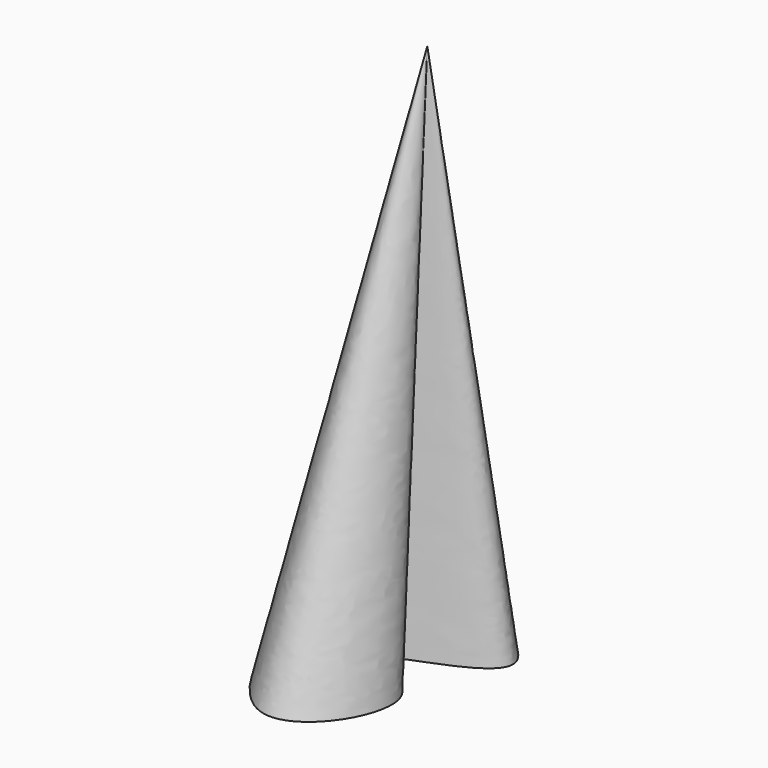
from build123d import *


with BuildPart() as f3:
    # F0 (on Top) → F3 section 0
    with BuildSketch(Plane.XY, mode=Mode.PRIVATE) as f3_s0:
        with BuildLine():
            add(Edge.make_bspline(
                [(-23.3180336654, 17.342787236), (-36.3523968045, 6.1706669098), (-13.8121633779, -65.0645130605), (19.045154779, -12.339819852), (-21.6185041699, -8.0623463761), (40.2041914011, 4.455034768), (-12.4390876356, 26.6674387567), (-23.3180336654, 17.342787236)],
                knots=[0, 0, 0, 0, 0.2687992921, 0.4527398969, 0.5966552928, 0.7756504894, 1, 1, 1, 1], degree=3))
        make_face()
    loft([Vertex(0, 0, 130.81), f3_s0.sketch])


solid = f3.part
